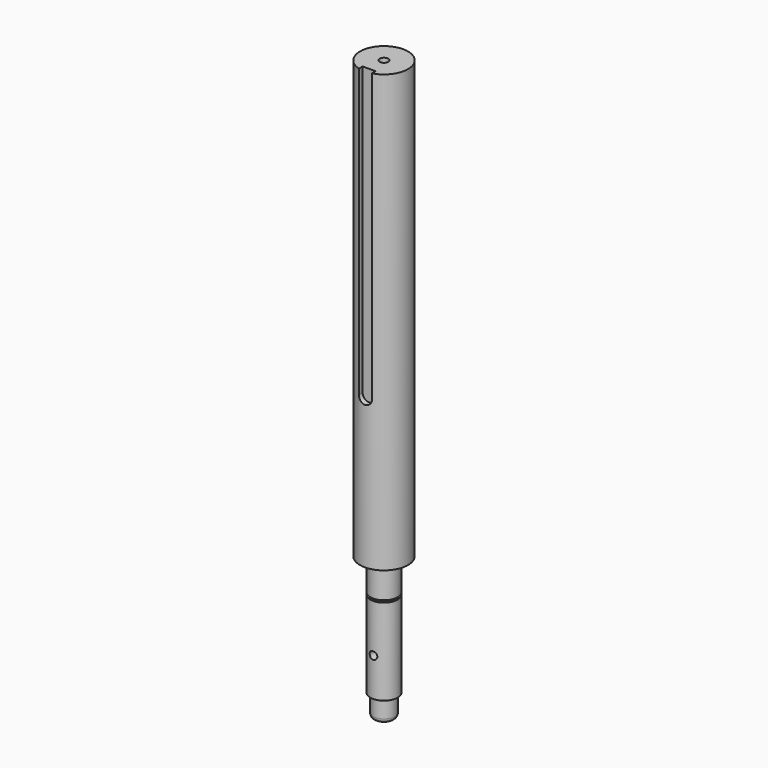
from build123d import *

# Parameters (mm, degrees)
F5_DEPTH  = 5
F6_R      = 4
F7_R      = 3.5
F8_DEPTH  = 22
F10_D     = 8
F10_DEPTH = 480
F10_TIP   = 2.4034424761


with BuildPart() as f1:
    # F0 (on Front) → F1 (revolve)
    with BuildSketch(Plane.XZ):
        with BuildLine():
            Line((0, -155.457497781), (0, 374.542502219))
            Line((0, 374.542502219), (-22, 374.542502219))
            Line((-22, 374.542502219), (-22, -25.457497781))
            Line((-22, -25.457497781), (-14.5, -25.457497781))
            ThreePointArc((-14.5, -25.457497781), (-13.0857864376, -26.0432842186), (-12.5, -27.457497781))
            Line((-12.5, -27.457497781), (-12.5, -54.457497781))
            Line((-12.5, -54.457497781), (-11, -54.457497781))
            Line((-11, -54.457497781), (-11, -56.457497781))
            Line((-11, -56.457497781), (-12.5, -56.457497781))
            Line((-12.5, -56.457497781), (-12.5, -135.457497781))
            Line((-12.5, -135.457497781), (-12, -135.457497781))
            ThreePointArc((-12, -135.457497781), (-10.5857864376, -136.0432842186), (-10, -137.457497781))
            Line((-10, -137.457497781), (-10, -155.457497781))
            Line((-10, -155.457497781), (0, -155.457497781))
        make_face()
    revolve(axis=Axis((0, 0, 132.3210597038), (0, 0, -1)))

    # F4 (on offset) → F5 (cut)
    with BuildSketch(Plane.XZ.offset(22)):
        with BuildLine():
            Line((6, 111.542502219), (6, 643.542502219))
            Line((6, 643.542502219), (-6, 643.542502219))
            Line((-6, 643.542502219), (-6, 111.542502219))
            ThreePointArc((-6, 111.542502219), (0, 105.542502219), (6, 111.542502219))
        make_face()
    extrude(amount=-F5_DEPTH, mode=Mode.SUBTRACT)

    # F6
    f6_edges = [f1.edges().sort_by_distance(p)[0] for p in [
        (10, 0, -155.457498),
    ]]
    fillet(f6_edges, radius=F6_R)

    # F7 (on offset) → F8 (cut)
    with BuildSketch(Plane.XZ.offset(22)):
        with Locations((0, -100.457497781)):
            Circle(F7_R)
    extrude(amount=-F8_DEPTH, mode=Mode.SUBTRACT)

    # F10
    with Locations(Plane.XY.offset(374.542502219)):
        with Locations((0, 0)):
            Hole(F10_D / 2, depth=F10_DEPTH)
            with Locations((0, 0, -(F10_DEPTH + F10_TIP / 2))):  # 118° drill point
                Cone(0, F10_D / 2, F10_TIP, mode=Mode.SUBTRACT)


solid = f1.part
